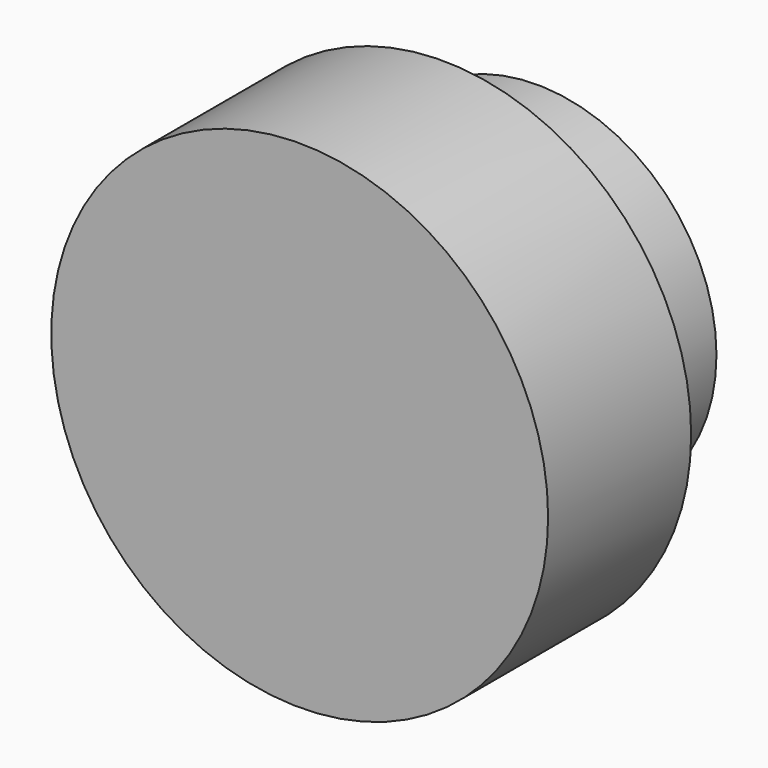
from build123d import *

# Parameters (mm, degrees)
F0_R     = 65.064224
F1_DEPTH = 46.824317
F2_R     = 47.040122
F3_DEPTH = 77.640906
F4_R     = 21.28271
F5_DEPTH = 99.144967


with BuildPart() as f1:
    # F0 (on Front) → F1 (new body)
    with BuildSketch(Plane.XZ):
        Circle(F0_R)
    extrude(amount=-F1_DEPTH)

    # F2 (on Front) → F3 (join)
    with BuildSketch(Plane.XZ):
        Circle(F2_R)
    extrude(amount=-F3_DEPTH)

    # F4 (on Front) → F5 (join)
    with BuildSketch(Plane.XZ):
        Circle(F4_R)
    extrude(amount=-F5_DEPTH)


solid = f1.part
